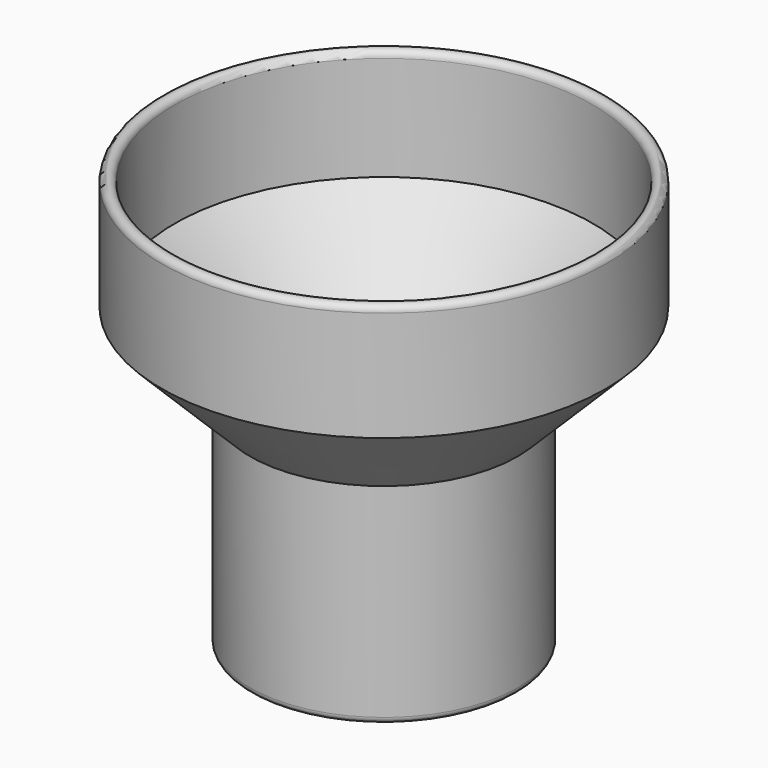
from build123d import *


with BuildPart() as f1:
    # F0 (on Front) → F1 (revolve)
    with BuildSketch(Plane.XZ):
        with BuildLine():
            Line((29.36875, 52.3875), (29.36875, 1.5875))
            ThreePointArc((29.36875, 1.5875), (30.95625, 0), (32.54375, 1.5875))
            Line((32.54375, 1.5875), (32.54375, 51.072372))
            Line((32.54375, 51.072372), (53.975, 72.503622))
            Line((53.975, 72.503622), (53.975, 99.21875))
            ThreePointArc((53.975, 99.21875), (52.3875, 100.80625), (50.8, 99.21875))
            Line((50.8, 99.21875), (50.8, 73.81875))
            Line((50.8, 73.81875), (29.36875, 52.3875))
        make_face()
    revolve(axis=Axis((0, 0, 21.63379), (0, 0, -1)))


solid = f1.part
